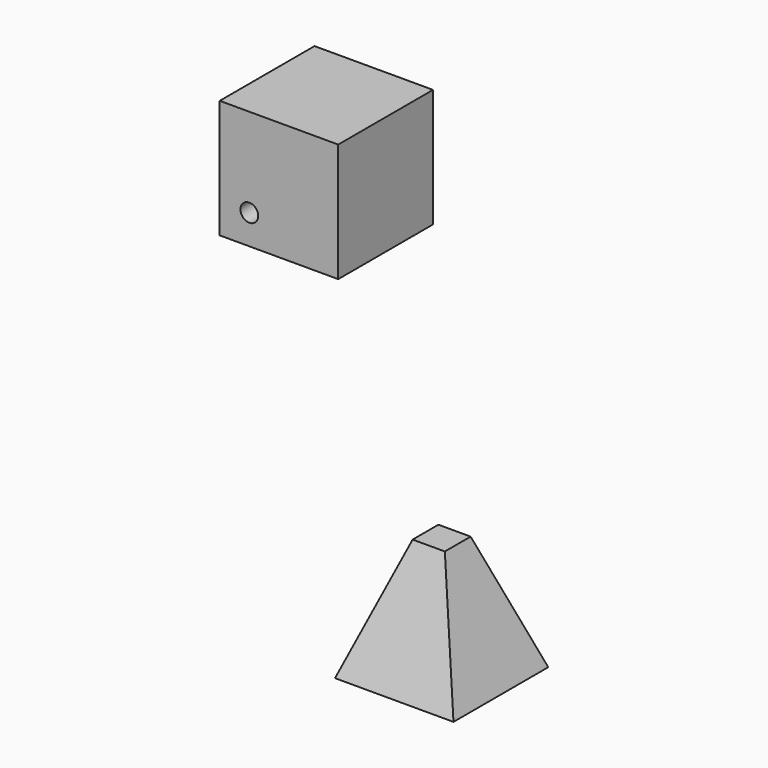
from build123d import *

# Parameters (mm, degrees)
F0_W     = 10
F0_H     = 10
F1_DEPTH = 10
F2_W     = 10
F2_H     = 10
F3_DEPTH = 10
F3_TAPER = 20
F4_R     = 0.75
F5_DEPTH = 25


with BuildPart() as f1:
    # F0 (on Top) → F1 (new body)
    with BuildSketch(Plane.XY):
        with Locations((-24.6569485217, 5)):
            Rectangle(F0_W, F0_H)
    extrude(amount=F1_DEPTH)

    # F4 (on face) → F5 (cut)
    with BuildSketch(Plane.XZ):
        with Locations((-27.1569485217, 2.5)):
            Circle(F4_R)
    extrude(amount=-F5_DEPTH, mode=Mode.SUBTRACT)


with BuildPart() as f3:
    # F2 (on Top) → F3 (new body)
    with BuildSketch(Plane.XY):
        with Locations((20.7480721921, -39.5969700813)):
            Rectangle(F2_W, F2_H)
    extrude(amount=F3_DEPTH, taper=F3_TAPER)


solid = Compound([f1.part, f3.part])
